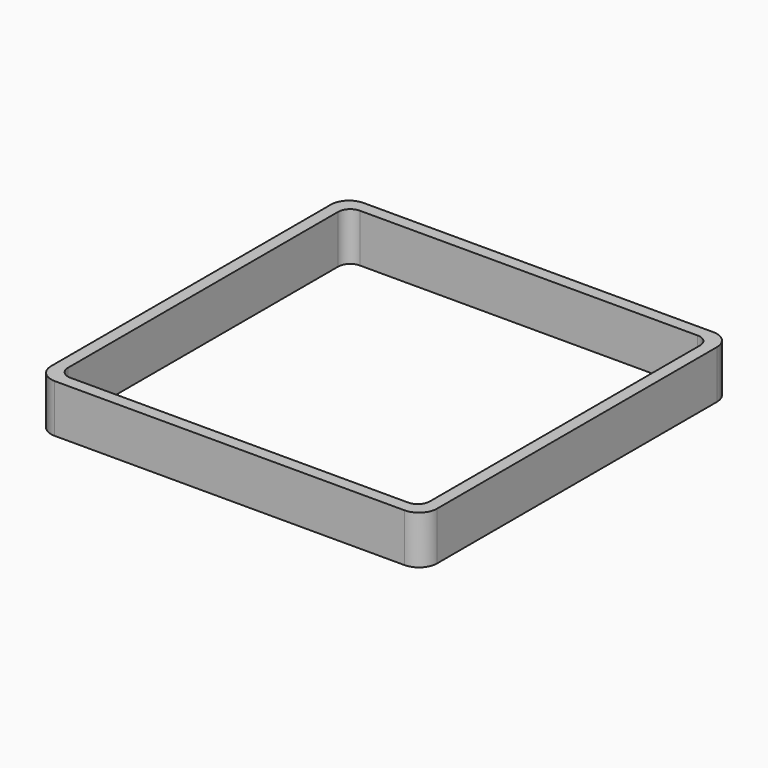
from build123d import *

# Parameters (mm, degrees)
EXTRUDE_DEPTH = 50


with BuildPart() as part:
    # Sketch → Extrude (new body)
    with BuildSketch(Plane.XY):
        with BuildLine():
            Line((-181.25, 200), (181.25, 200))
            ThreePointArc((200, 181.25), (194.508252, 194.508252), (181.25, 200))
            Line((200, 181.25), (200, -181.25))
            ThreePointArc((181.25, -200), (194.508252, -194.508252), (200, -181.25))
            Line((181.25, -200), (-181.25, -200))
            ThreePointArc((-200, -181.25), (-194.508252, -194.508252), (-181.25, -200))
            Line((-200, -181.25), (-200, 181.25))
            ThreePointArc((-181.25, 200), (-194.508252, 194.508252), (-200, 181.25))
        make_face()
        with BuildLine():
            Line((-175, 187.5), (175, 187.5))
            ThreePointArc((187.5, 175), (183.838835, 183.838835), (175, 187.5))
            Line((187.5, 175), (187.5, -175))
            ThreePointArc((175, -187.5), (183.838835, -183.838835), (187.5, -175))
            Line((175, -187.5), (-175, -187.5))
            ThreePointArc((-187.5, -175), (-183.838835, -183.838835), (-175, -187.5))
            Line((-187.5, -175), (-187.5, 175))
            ThreePointArc((-175, 187.5), (-183.838835, 183.838835), (-187.5, 175))
        make_face(mode=Mode.SUBTRACT)
    extrude(amount=EXTRUDE_DEPTH)


solid = part.part
